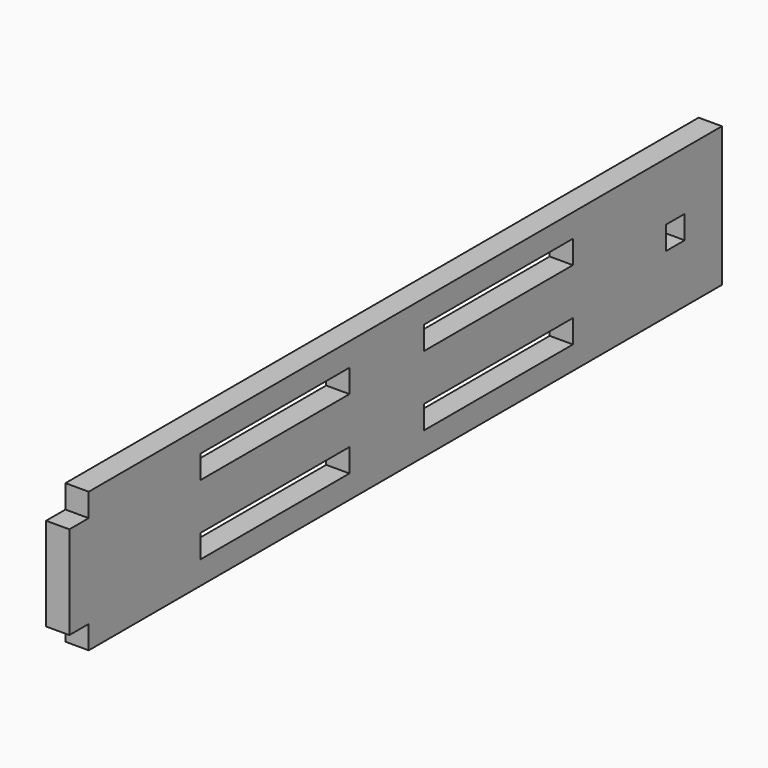
from build123d import *

# Parameters (mm, degrees)
F0_W     = 50.8
F0_H     = 6.35
F0_W_2   = 6.35
F1_DEPTH = 6.35


with BuildPart() as f1:
    # F0 (on Right) → F1 (new body)
    with BuildSketch(Plane.YZ):
        Polygon((215.9, 0), (0, 0), (0, -6.35), (-6.604, -6.35), (-6.604, -31.75), (0, -31.75), (0, -38.1), (215.9, -38.1), align=None)
        with Locations((63.5, -28.575)):
            Rectangle(F0_W, F0_H, mode=Mode.SUBTRACT)
        with Locations((139.7, -28.575)):
            Rectangle(F0_W, F0_H, mode=Mode.SUBTRACT)
        with Locations((63.5, -9.525)):
            Rectangle(F0_W, F0_H, mode=Mode.SUBTRACT)
        with Locations((200.025, -19.05)):
            Rectangle(F0_W_2, F0_H, mode=Mode.SUBTRACT)
        with Locations((139.7, -9.525)):
            Rectangle(F0_W, F0_H, mode=Mode.SUBTRACT)
    extrude(amount=F1_DEPTH)


solid = f1.part
